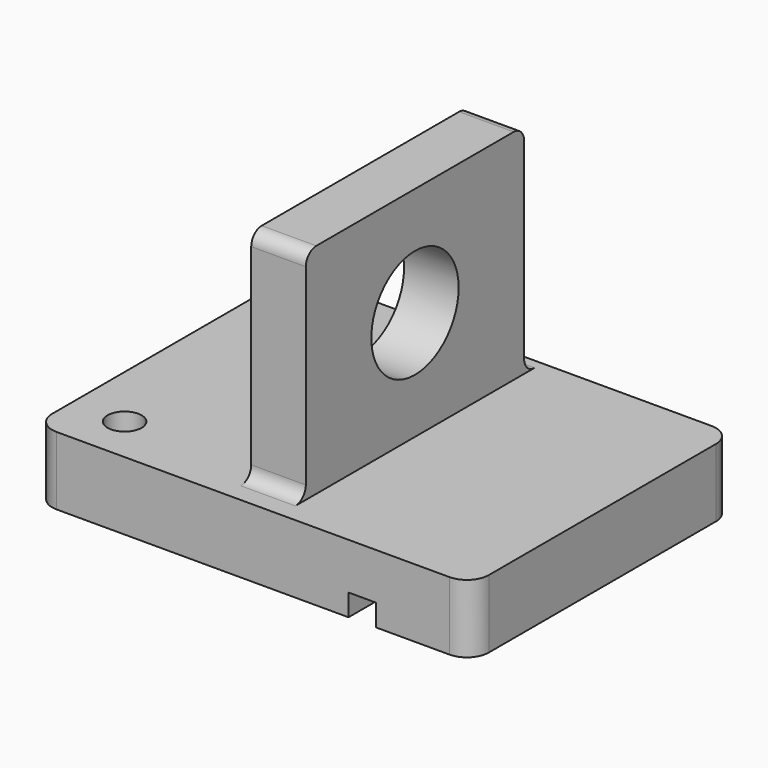
from build123d import *

# Parameters (mm, degrees)
F0_W     = 12.7
F0_H     = 63.5
F1_DEPTH = 66.675
F0_W_2   = 101.6
F0_H_2   = 76.2
F0_R     = 3.9624
F2_DEPTH = 15.875
F3_R     = 3.048
F4_R     = 5.08
F6_W     = 6.35
F6_H     = 76.2
F7_DEPTH = 5.08
F5_R     = 12.7
F8_DEPTH = 37.592


with BuildPart() as f1:
    # F0 (on Top) → F1 (new body)
    with BuildSketch(Plane.XY):
        with Locations((-1.256721, 13.457914)):
            Rectangle(F0_W, F0_H)
    extrude(amount=F1_DEPTH)

    # F0 (on Top) → F2 (join)
    with BuildSketch(Plane.XY):
        with Locations((-1.256721, 12.390629)):
            Rectangle(F0_W_2, F0_H_2)
        with Locations((-39.873372, -14.794378)):
            Circle(F0_R, mode=Mode.SUBTRACT)
        with Locations((-40.350091, 39.065836)):
            Circle(F0_R, mode=Mode.SUBTRACT)
        with Locations((-1.256721, 13.457914)):
            Rectangle(F0_W, F0_H, mode=Mode.SUBTRACT)
    extrude(amount=F2_DEPTH)

    # F3
    f3_edges = [f1.edges().sort_by_distance(p)[0] for p in [
        (-1.256721, -18.292086, 66.675),
        (-1.256721, 45.207914, 66.675),
        (-1.256721, -18.292086, 15.875),
        (-1.256721, 45.207914, 15.875),
    ]]
    fillet(f3_edges, radius=F3_R)

    # F4
    f4_edges = [f1.edges().sort_by_distance(p)[0] for p in [
        (-52.056721, -25.709371, 7.9375),
        (49.543279, -25.709371, 7.9375),
        (49.543279, 50.490629, 7.9375),
        (-52.056721, 50.490629, 7.9375),
    ]]
    fillet(f4_edges, radius=F4_R)

    # F6 (on face) → F7 (cut)
    with BuildSketch(Plane(origin=(0, 0, 0), x_dir=(1, 0, 0), z_dir=(0, 0, -1))):
        with Locations((24.143279, -12.390629)):
            Rectangle(F6_W, F6_H)
    extrude(amount=-F7_DEPTH, mode=Mode.SUBTRACT)

    # F5 (on face) → F8 (cut)
    with BuildSketch(Plane.YZ.offset(5.093279)):
        with Locations((13.457914, 41.275)):
            Circle(F5_R)
    extrude(amount=-F8_DEPTH, mode=Mode.SUBTRACT)


solid = f1.part
